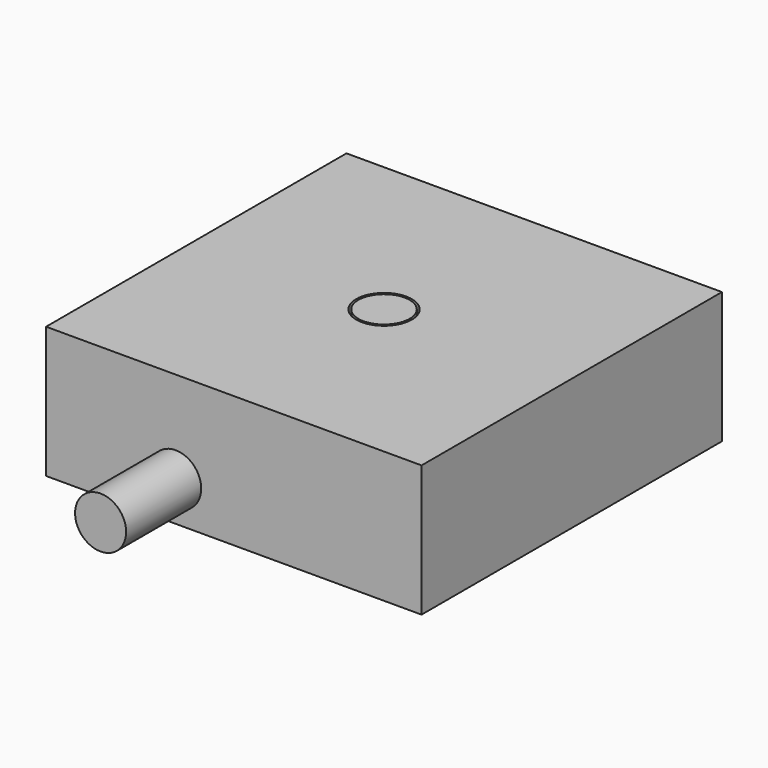
from build123d import *

# Parameters (mm, degrees)
F2_W     = 1000
F2_H     = 1000
F3_DEPTH = 350
F0_W     = 6
F0_H     = 500
F5_R     = 68
F6_DEPTH = 250


with BuildPart() as f3:
    # F2 (on offset) → F3 (new body)
    with BuildSketch(Plane.XY.offset(165.3)):
        Rectangle(F2_W, F2_H)
    extrude(amount=F3_DEPTH)

    # F0 (on Front) → F4 (revolve, cut)
    with BuildSketch(Plane.XZ):
        with Locations((-71.2, 495)):
            Rectangle(F0_W, F0_H)
    revolve(axis=Axis((0, 0, 278.492689), (0, 0, 1)), mode=Mode.SUBTRACT)

    # F5 (on face) → F6 (join)
    with BuildSketch(Plane.XZ.offset(500)):
        with Locations((-154.8, 270)):
            Circle(F5_R)
    extrude(amount=F6_DEPTH)


solid = f3.part
